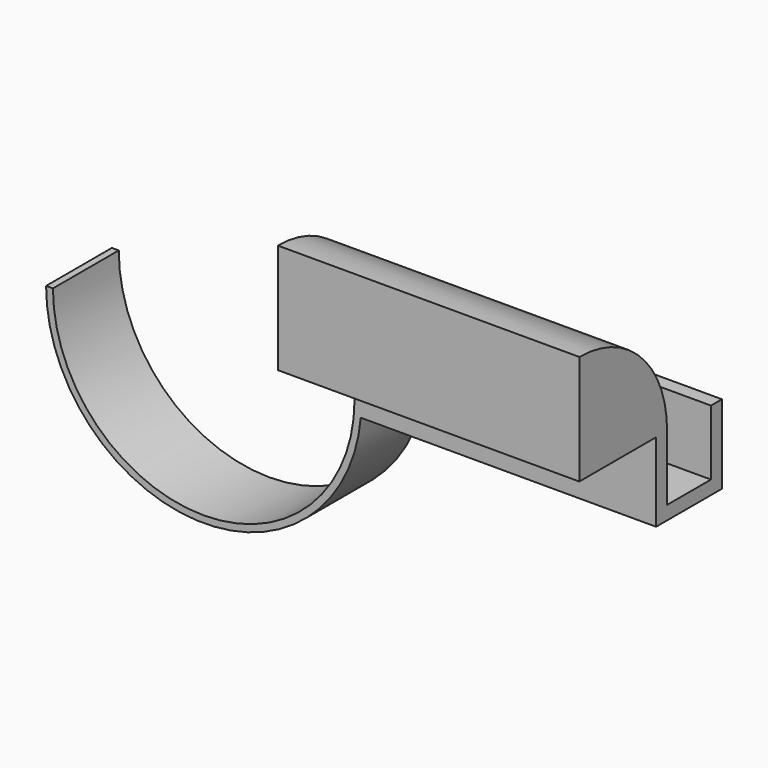
from build123d import *

# Parameters (mm, degrees)
F1_DEPTH = 279.4
F3_DEPTH = 76.2


with BuildPart() as f1:
    # F0 (on Right) → F1 (new body)
    with BuildSketch(Plane.YZ):
        with BuildLine():
            Line((-101.6, -114.072286), (-101.6, -215.672286))
            Line((-101.6, -215.672286), (-12.7, -215.672286))
            Line((-12.7, -215.672286), (-12.7, -288.716509))
            Line((-12.7, -288.716509), (63.5, -288.716509))
            Line((63.5, -288.716509), (63.5, -215.672286))
            Line((63.5, -215.672286), (50.8, -215.672286))
            Line((50.8, -215.672286), (50.8, -276.016509))
            Line((50.8, -276.016509), (0, -276.016509))
            Line((0, -276.016509), (0, -215.672286))
            ThreePointArc((0, -215.672286), (-29.757951, -143.830237), (-101.6, -114.072286))
        make_face()
    extrude(amount=F1_DEPTH)

    # F2 (on face) → F3 (join)
    with BuildSketch(Plane(origin=(0, 63.5, 0), x_dir=(-1, 0, 0), z_dir=(0, 1, 0))):
        with BuildLine():
            ThreePointArc((279.4, -276.016509), (139.7, -415.716509), (0, -276.016509))
            Line((0, -276.016509), (-6.35, -276.016509))
            ThreePointArc((-6.35, -276.016509), (139.7, -422.066509), (285.75, -276.016509))
            Line((285.75, -276.016509), (279.4, -276.016509))
        make_face()
    extrude(amount=-F3_DEPTH)


solid = f1.part
